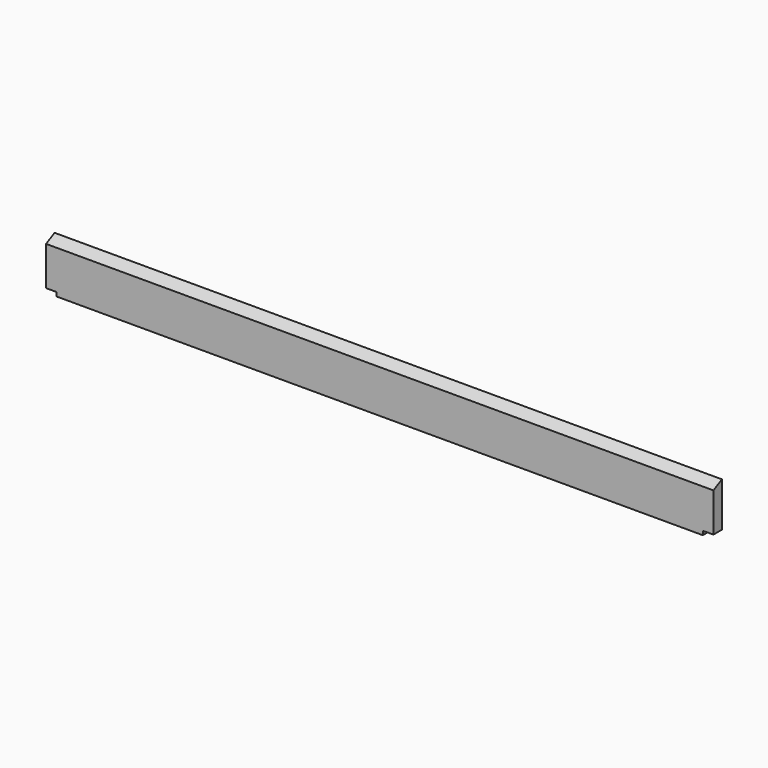
from build123d import *

# Parameters (mm, degrees)
F1_DEPTH = 1193.8
F2_DEPTH = 1155.7


with BuildPart() as f1:
    # F0 (on Right) → F1 (new body, symmetric)
    with BuildSketch(Plane.YZ):
        with BuildLine():
            ThreePointArc((-19.05, 1346.0652055157), (0, 1346.2), (19.05, 1346.0652055157))
            Line((19.05, 1346.0652055157), (19.05, 1504.9125))
            Line((19.05, 1504.9125), (-19.05, 1485.4995803743))
            Line((-19.05, 1485.4995803743), (-19.05, 1346.0652055157))
        make_face()
    extrude(amount=F1_DEPTH, both=True)

    # F0 (on Right) → F2 (join, symmetric)
    with BuildSketch(Plane.YZ):
        with BuildLine():
            Line((-19.05, 1331.9125), (19.05, 1331.9125))
            Line((19.05, 1331.9125), (19.05, 1346.0652055157))
            ThreePointArc((19.05, 1346.0652055157), (0, 1346.2), (-19.05, 1346.0652055157))
            Line((-19.05, 1346.0652055157), (-19.05, 1331.9125))
        make_face()
    extrude(amount=F2_DEPTH, both=True)


solid = f1.part
